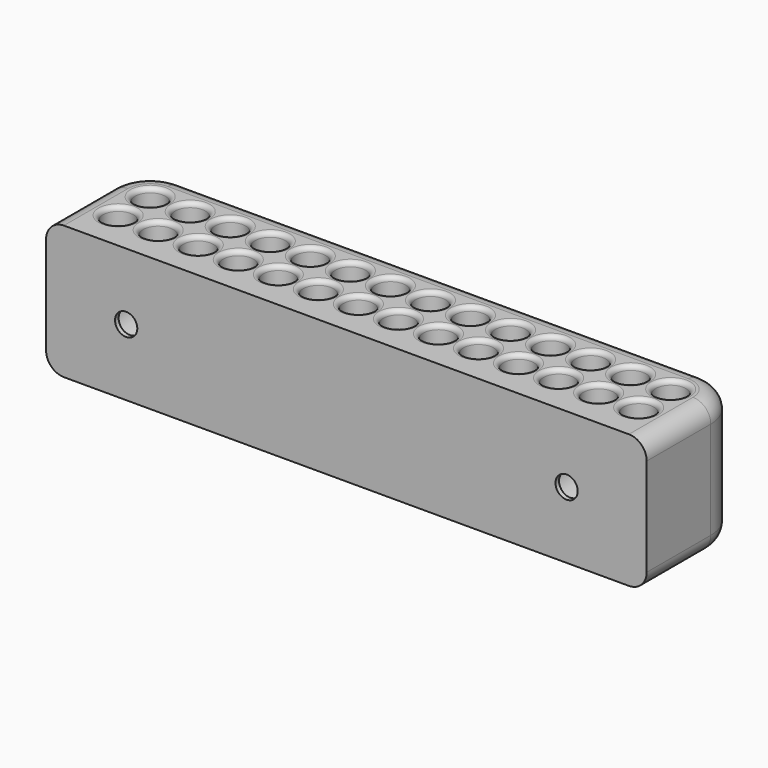
from build123d import *

# Parameters (mm, degrees)
SKETCH_R        = 3.4
PAD_DEPTH       = 30
FILLET_R        = 4
SKETCH001_R     = 2.5
POCKET_DEPTH    = 35
SKETCH002_R     = 5.5
POCKET001_DEPTH = 26
FILLET001_R     = 1
FILLET002_R     = 1


with BuildPart() as part:
    # Sketch → Pad (new body)
    with BuildSketch(Plane.XY):
        with BuildLine():
            Line((0, 0), (135, 0))
            Line((135, 0), (135, 18))
            ThreePointArc((135, 18), (132.363961, 24.363961), (126, 27))
            Line((126, 27), (9, 27))
            ThreePointArc((9, 27), (2.636039, 24.363961), (0, 18))
            Line((0, 18), (0, 0))
        make_face()
        with Locations((9, 9)):
            Circle(SKETCH_R, mode=Mode.SUBTRACT)
        with Locations((9, 18)):
            Circle(SKETCH_R, mode=Mode.SUBTRACT)
        with Locations((18, 18)):
            Circle(SKETCH_R, mode=Mode.SUBTRACT)
        with Locations((18, 9)):
            Circle(SKETCH_R, mode=Mode.SUBTRACT)
        with Locations((27, 18)):
            Circle(SKETCH_R, mode=Mode.SUBTRACT)
        with Locations((27, 9)):
            Circle(SKETCH_R, mode=Mode.SUBTRACT)
        with Locations((36, 18)):
            Circle(SKETCH_R, mode=Mode.SUBTRACT)
        with Locations((36, 9)):
            Circle(SKETCH_R, mode=Mode.SUBTRACT)
        with Locations((45, 18)):
            Circle(SKETCH_R, mode=Mode.SUBTRACT)
        with Locations((45, 9)):
            Circle(SKETCH_R, mode=Mode.SUBTRACT)
        with Locations((54, 18)):
            Circle(SKETCH_R, mode=Mode.SUBTRACT)
        with Locations((54, 9)):
            Circle(SKETCH_R, mode=Mode.SUBTRACT)
        with Locations((63, 18)):
            Circle(SKETCH_R, mode=Mode.SUBTRACT)
        with Locations((63, 9)):
            Circle(SKETCH_R, mode=Mode.SUBTRACT)
        with Locations((72, 9)):
            Circle(SKETCH_R, mode=Mode.SUBTRACT)
        with Locations((72, 18)):
            Circle(SKETCH_R, mode=Mode.SUBTRACT)
        with Locations((81, 9)):
            Circle(SKETCH_R, mode=Mode.SUBTRACT)
        with Locations((81, 18)):
            Circle(SKETCH_R, mode=Mode.SUBTRACT)
        with Locations((90, 18)):
            Circle(SKETCH_R, mode=Mode.SUBTRACT)
        with Locations((99, 18)):
            Circle(SKETCH_R, mode=Mode.SUBTRACT)
        with Locations((108, 18)):
            Circle(SKETCH_R, mode=Mode.SUBTRACT)
        with Locations((90, 9)):
            Circle(SKETCH_R, mode=Mode.SUBTRACT)
        with Locations((99, 9)):
            Circle(SKETCH_R, mode=Mode.SUBTRACT)
        with Locations((108, 9)):
            Circle(SKETCH_R, mode=Mode.SUBTRACT)
        with Locations((117, 18)):
            Circle(SKETCH_R, mode=Mode.SUBTRACT)
        with Locations((117, 9)):
            Circle(SKETCH_R, mode=Mode.SUBTRACT)
        with Locations((126, 18)):
            Circle(SKETCH_R, mode=Mode.SUBTRACT)
        with Locations((126, 9)):
            Circle(SKETCH_R, mode=Mode.SUBTRACT)
    extrude(amount=PAD_DEPTH)

    # Fillet
    fillet_edges = [part.edges().sort_by_distance(p)[0] for p in [
        (67.5, 27, 30),
        (67.5, 27, 0),
    ]]
    fillet(fillet_edges, radius=FILLET_R)

    # Sketch001 (on Face46 of Fillet) → Pocket (cut)
    with BuildSketch(Plane(origin=(0, 27, 0), x_dir=(-1, 0, 0), z_dir=(0, 1, 0))):
        with Locations((-117, 15)):
            Circle(SKETCH001_R)
        with Locations((-18, 15)):
            Circle(SKETCH001_R)
    extrude(amount=-POCKET_DEPTH, mode=Mode.SUBTRACT)

    # Sketch002 (on Face48 of Pocket) → Pocket001 (cut)
    with BuildSketch(Plane(origin=(0, 27, 0), x_dir=(-1, 0, 0), z_dir=(0, 1, 0))):
        with Locations((-117, 15)):
            Circle(SKETCH002_R)
        with Locations((-18, 15)):
            Circle(SKETCH002_R)
    extrude(amount=-POCKET001_DEPTH, mode=Mode.SUBTRACT)

    # Fillet001
    fillet001_edges = [part.edges().sort_by_distance(p)[0] for p in [
        (122.5, 27, 15),
        (23.5, 27, 15),
    ]]
    fillet(fillet001_edges, radius=FILLET001_R)

    # Fillet002
    fillet002_edges = [part.edges().sort_by_distance(p)[0] for p in [
        (77.6, 9, 30),
        (77.6, 18, 30),
        (68.6, 9, 30),
        (68.6, 18, 30),
        (59.6, 18, 30),
        (59.6, 9, 30),
        (50.6, 9, 30),
        (50.6, 18, 30),
        (41.6, 18, 30),
        (41.6, 9, 30),
        (32.6, 9, 30),
        (32.6, 18, 30),
        (23.6, 18, 30),
        (23.6, 9, 30),
        (14.6, 18, 30),
        (14.6, 9, 30),
        (5.6, 9, 30),
        (5.6, 18, 30),
        (86.6, 9, 30),
        (86.6, 18, 30),
        (95.6, 18, 30),
        (95.6, 9, 30),
        (104.6, 9, 30),
        (104.6, 18, 30),
        (113.6, 9, 30),
        (113.6, 18, 30),
        (122.6, 9, 30),
        (122.6, 18, 30),
    ]]
    fillet(fillet002_edges, radius=FILLET002_R)


solid = part.part
